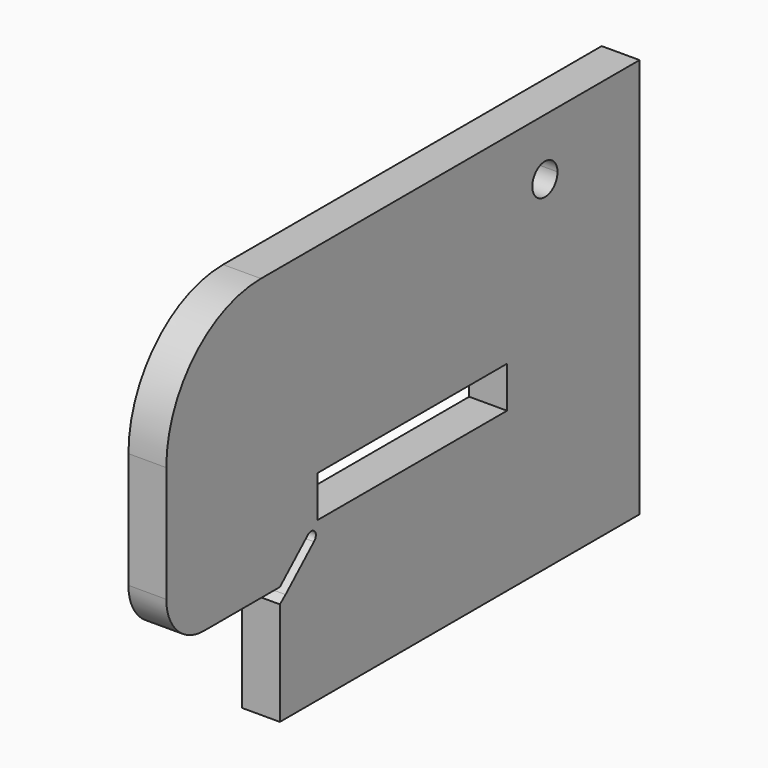
from build123d import *

# Parameters (mm, degrees)
F0_W     = 50
F0_H     = 8.75
F1_DEPTH = 8


with BuildPart() as f1:
    # F0 (on Right) → F1 (new body)
    with BuildSketch(Plane.YZ):
        with BuildLine():
            Line((17.593615, 42.25), (-19.906385, 42.25))
            Line((-19.906385, 42.25), (-57.406385, 42.25))
            ThreePointArc((-57.406385, 42.25), (-75.084055, 34.92767), (-82.406385, 17.25))
            Line((-82.406385, 17.25), (-82.406385, -7.25))
            ThreePointArc((-82.406385, -7.25), (-79.504872, -14.254872), (-72.5, -17.156385))
            Line((-72.5, -17.156385), (-52.406385, -17.156385))
            Line((-52.406385, -17.156385), (-44.993822, -10.444165))
            ThreePointArc((-44.993822, -10.444165), (-43.180784, -10.581559), (-43.412569, -12.384961))
            Line((-43.412569, -12.384961), (-50.909492, -19.173572))
            Line((-50.909492, -19.173572), (-52.406385, -20.379891))
            Line((-52.406385, -20.379891), (-52.406385, -42.25))
            Line((-52.406385, -42.25), (42.593615, -42.25))
            Line((42.593615, -42.25), (42.593615, 0))
            Line((42.593615, 0), (42.593615, 42.25))
            Line((42.593615, 42.25), (17.593615, 42.25))
        make_face()
        with Locations((-17.406385, -4.375)):
            Rectangle(F0_W, F0_H, mode=Mode.SUBTRACT)
        with BuildLine():
            ThreePointArc((20.923833, 30.25), (15.238794, 27.89518), (17.593615, 33.580219))
            ThreePointArc((17.593615, 33.580219), (19.948435, 32.60482), (20.923833, 30.25))
        make_face(mode=Mode.SUBTRACT)
    extrude(amount=F1_DEPTH)


solid = f1.part
